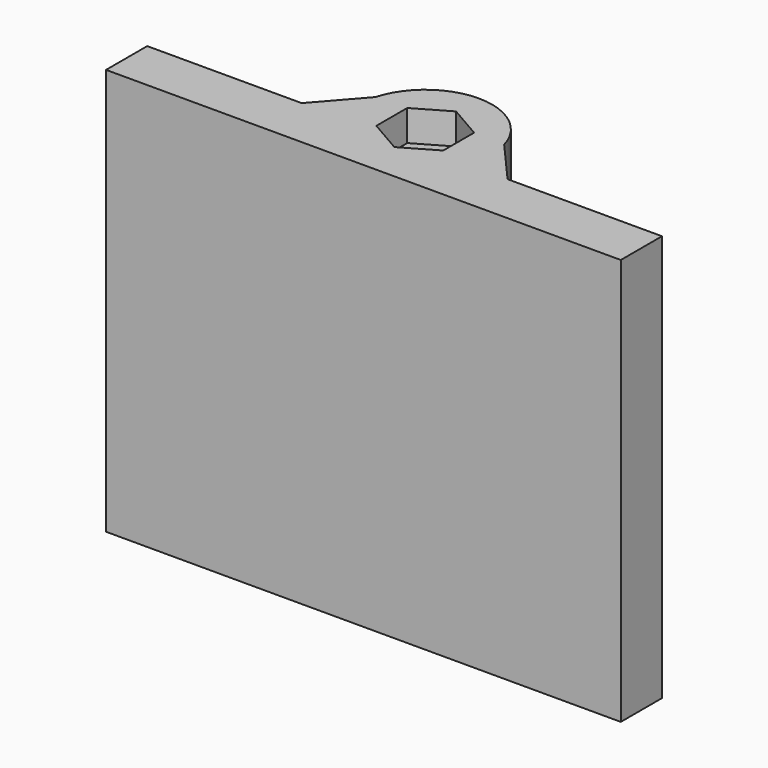
from build123d import *

# Parameters (mm, degrees)
EXTRUDE_DEPTH   = 79
POCKET_DEPTH    = 6
POCKET001_DEPTH = 6


with BuildPart() as obj1:
    # Part__Mirroring → Extrude (new body)
    with BuildSketch(Plane(origin=(-25, -1.004737, 0), x_dir=(0, 1, 0), z_dir=(0, 0, 1))):
        with BuildLine():
            ThreePointArc((14.004737, -25), (11.372036, -17.156587), (4.540257, -12.49))
            Line((4.540257, -12.49), (-4.000791, -5))
            Line((-4.000791, -5), (-4.004737, 25))
            Line((-4.004737, 25), (-14.004737, 25))
            Line((-14.004737, 25), (-14.004737, -25))
            Line((-14.004737, -25), (-2.745263, -25))
            ThreePointArc((-2.745263, -25), (1.004737, -21.25), (4.754737, -25))
            Line((4.754737, -25), (14.004737, -25))
        make_face()
    extrude(amount=EXTRUDE_DEPTH)


with BuildPart() as body001:
    # Part__Mirroring001: instance of obj1
    add(obj1.part.mirror(Plane(origin=(0, 0, 0), x_dir=(0, -1, 0), z_dir=(1, 0, 0))))

    # Fusion: union obj1
    add(obj1.part)

    # Sketch001 → Pocket (cut)
    with BuildSketch(Plane.XY):
        Polygon((0, -7.5), (6.495191, -3.75), (6.495191, 3.75), (0, 7.5), (-6.495191, 3.75), (-6.495191, -3.75), align=None)
    extrude(amount=POCKET_DEPTH, mode=Mode.SUBTRACT)

    # Sketch002 (on Face5 of Pocket) → Pocket001 (cut)
    with BuildSketch(Plane.XY.offset(79)):
        Polygon((0, -7.5), (6.495191, -3.75), (6.495191, 3.75), (0, 7.5), (-6.495191, 3.75), (-6.495191, -3.75), align=None)
    extrude(amount=-POCKET001_DEPTH, mode=Mode.SUBTRACT)


solid = body001.part
